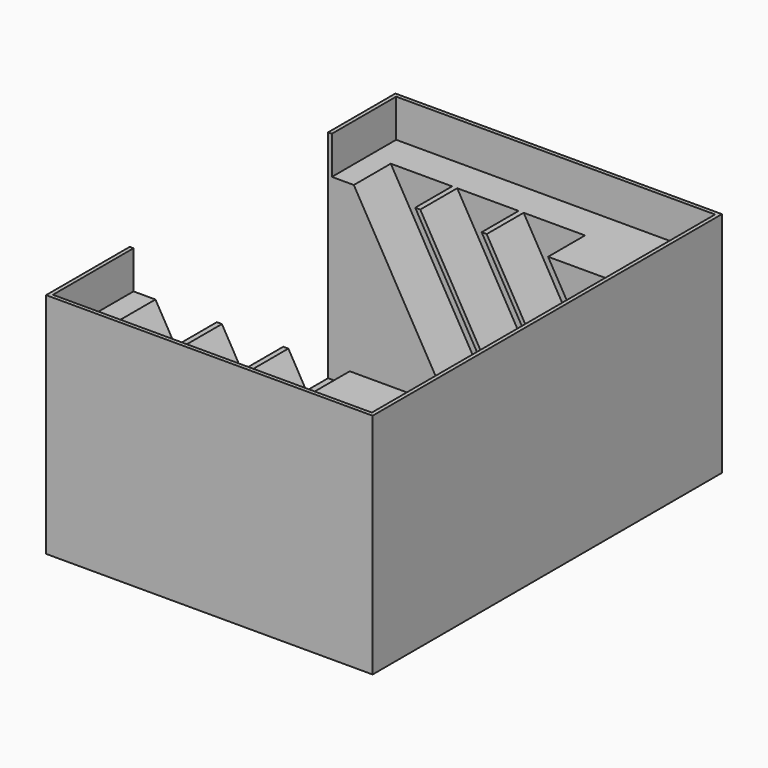
from build123d import *

# Parameters (mm, degrees)
SKETCH018_W            = 86
SKETCH018_H            = 115
PAD009_DEPTH           = 60
POCKET008_DEPTH        = 90
LINEARPATTERN005_COUNT = 3
LINEARPATTERN005_PITCH = 17.5
SKETCH020_W            = 84
SKETCH020_H            = 113
POCKET009_DEPTH        = 10
SKETCH021_W            = 84.35487
SKETCH021_H            = 65.313143
POCKET010_DEPTH        = 57


with BuildPart() as part:
    # Sketch018 → Pad009 (new body)
    with BuildSketch(Plane.XY):
        Rectangle(SKETCH018_W, SKETCH018_H)
    extrude(amount=PAD009_DEPTH)

    # Sketch019 (on DatumPlane) → Pocket008 (cut)
    with BuildSketch(Plane(origin=(34, -42.5, 3), x_dir=(1, 0, 0), z_dir=(0, -1, 0))):
        Polygon((-40.082904, 55.425626), (-23.917096, 55.425626), (8.082904, 0), (-8.082904, 0), align=None)
    pocket008 = extrude(amount=-POCKET008_DEPTH, mode=Mode.SUBTRACT)

    # LinearPattern005: Pocket008 ×3
    with Locations(*[(-i * LINEARPATTERN005_PITCH, 0, 0) for i in range(1, LINEARPATTERN005_COUNT)]):
        add(pocket008, mode=Mode.SUBTRACT)

    # Sketch020 (on DatumPlane) → Pocket009 (cut)
    with BuildSketch(Plane.XY.offset(60)):
        Rectangle(SKETCH020_W, SKETCH020_H)
    extrude(amount=-POCKET009_DEPTH, mode=Mode.SUBTRACT)

    # Sketch021 (on DatumPlane) → Pocket010 (cut)
    with BuildSketch(Plane.XY.offset(60)):
        with Locations((-0.938883, 2.685085)):
            Rectangle(SKETCH021_W, SKETCH021_H)
    extrude(amount=-POCKET010_DEPTH, mode=Mode.SUBTRACT)


with BuildPart() as part_1:
    # Body007 placement: moved
    add(part.part.moved(Location((-53, 111, 0))))


solid = part_1.part
